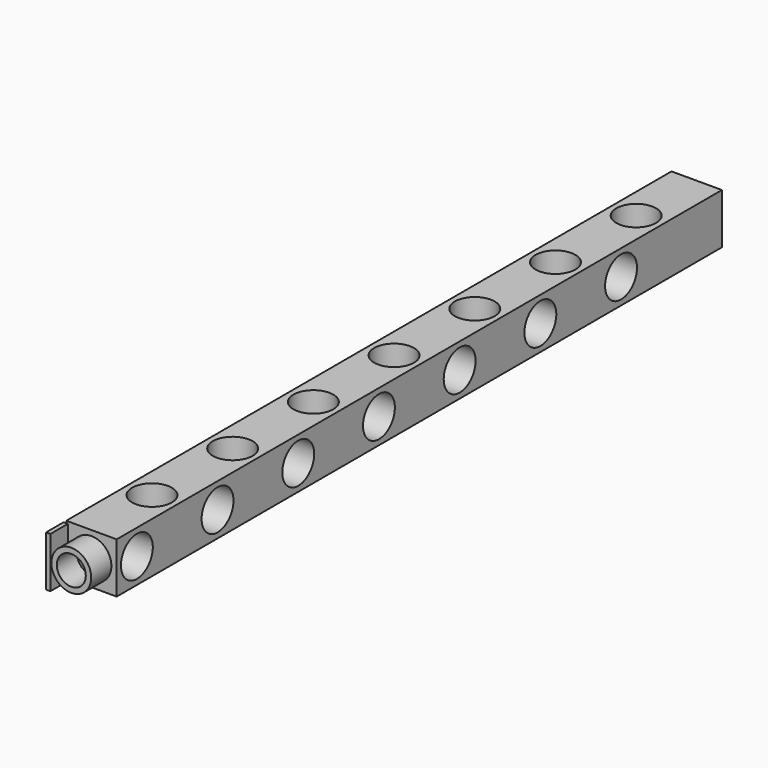
from build123d import *

# Parameters (mm, degrees)
F0_W      = 10
F0_H      = 150
F1_DEPTH  = 10
F2_R      = 3.95
F3_DEPTH  = 25
F4_R      = 3.95
F5_DEPTH  = 25
F6_R      = 3.95
F7_DEPTH  = 9
F8_R      = 3.95
F8_R_2    = 2.875
F9_DEPTH  = 5
F10_W     = 0.85
F10_H     = 10
F11_DEPTH = 5
F12_W     = 2.29301
F12_H     = 0.662494
F13_DEPTH = 25


with BuildPart() as f1:
    # F0 (on Top) → F1 (new body)
    with BuildSketch(Plane.XY):
        Rectangle(F0_W, F0_H)
    extrude(amount=F1_DEPTH)

    # F2 (on face) → F3 (cut)
    with BuildSketch(Plane.XY.offset(10)):
        Circle(F2_R)
        with Locations((0, 20)):
            Circle(F2_R)
        with Locations((0, 40)):
            Circle(F2_R)
        with Locations((0, 60)):
            Circle(F2_R)
        with Locations((0, -20)):
            Circle(F2_R)
        with Locations((0, -40)):
            Circle(F2_R)
        with Locations((0, -60)):
            Circle(F2_R)
    extrude(amount=-F3_DEPTH, mode=Mode.SUBTRACT)

    # F4 (on face) → F5 (cut)
    with BuildSketch(Plane(origin=(-5, 0, 0), x_dir=(0, -1, 0), z_dir=(-1, 0, 0))):
        with Locations((-10, 5)):
            Circle(F4_R)
        with Locations((-30, 5)):
            Circle(F4_R)
        with Locations((-50, 5)):
            Circle(F4_R)
        with Locations((10, 5)):
            Circle(F4_R)
        with Locations((30, 5)):
            Circle(F4_R)
        with Locations((50, 5)):
            Circle(F4_R)
        with Locations((70, 5)):
            Circle(F4_R)
    extrude(amount=-F5_DEPTH, mode=Mode.SUBTRACT)

    # F6 (on face) → F7 (cut)
    with BuildSketch(Plane(origin=(0, 75, 0), x_dir=(-1, 0, 0), z_dir=(0, 1, 0))):
        with Locations((0, 5)):
            Circle(F6_R)
    extrude(amount=-F7_DEPTH, mode=Mode.SUBTRACT)

    # F8 (on face) → F9 (join)
    with BuildSketch(Plane.XZ.offset(75)):
        with Locations((0, 5)):
            Circle(F8_R)
        with Locations((0, 5)):
            Circle(F8_R_2, mode=Mode.SUBTRACT)
    extrude(amount=F9_DEPTH)

    # F10 (on face) → F11 (join)
    with BuildSketch(Plane.XZ.offset(75)):
        with Locations((-4.575, 5)):
            Rectangle(F10_W, F10_H)
    extrude(amount=F11_DEPTH)

    # F12 (on face) → F13 (cut)
    with BuildSketch(Plane.XY.offset(10)):
        with Locations((-5.296505, -75.331247)):
            Rectangle(F12_W, F12_H)
    extrude(amount=-F13_DEPTH, mode=Mode.SUBTRACT)


solid = f1.part
